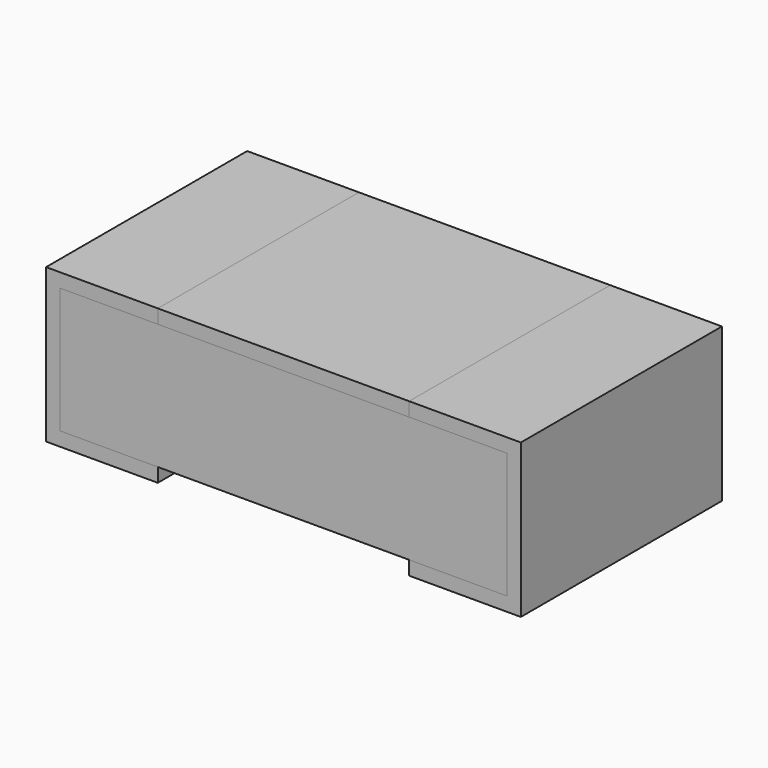
from build123d import *

# Parameters (mm, degrees)
SKETCH_W         = 1.6
SKETCH_H         = 0.9
EXTRUDE_DEPTH    = 0.45
EXTRUDE001_DEPTH = 0.9
SKETCH002_W      = 0.9
SKETCH002_H      = 0.05
EXTRUDE002_DEPTH = 0.9


with BuildPart() as body_main:
    # Sketch → Extrude (new body)
    with BuildSketch(Plane.XY.offset(0.05)):
        Rectangle(SKETCH_W, SKETCH_H)
    extrude(amount=EXTRUDE_DEPTH)


with BuildPart() as pin:
    # Sketch001 → Extrude001 (new body)
    with BuildSketch(Plane.XZ.offset(-0.45)):
        Polygon((-0.45, 0.55), (-0.85, 0.55), (-0.85, 0), (-0.45, 0), (-0.45, 0.05), (-0.8, 0.05), (-0.8, 0.5), (-0.45, 0.5), align=None)
        Polygon((0.45, 0.55), (0.85, 0.55), (0.85, 0), (0.45, 0), (0.45, 0.05), (0.8, 0.05), (0.8, 0.5), (0.45, 0.5), align=None)
    extrude(amount=EXTRUDE001_DEPTH)


with BuildPart() as body_top:
    # Sketch002 → Extrude002 (new body)
    with BuildSketch(Plane.XZ.offset(-0.45)):
        with Locations((0, 0.525)):
            Rectangle(SKETCH002_W, SKETCH002_H)
    extrude(amount=EXTRUDE002_DEPTH)


solid = Compound([body_main.part, pin.part, body_top.part])
